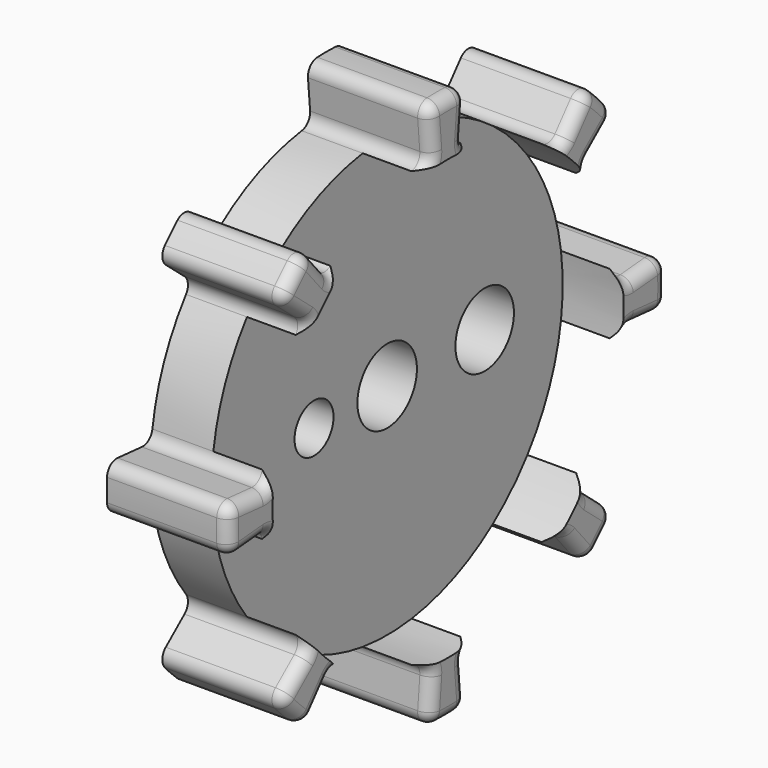
from build123d import *

# Parameters (mm, degrees)
F1_DEPTH = 10
F2_R     = 18
F3_DEPTH = 5
F5_D     = 6.1
F6_R     = 1
F7_D     = 6
F8_D     = 4


with BuildPart() as f1:
    # F0 (on Right) → F1 (new body)
    with BuildSketch(Plane.YZ):
        with BuildLine():
            ThreePointArc((1.8718204939, 21.3950061472), (1.6265103525, 22.1425953707), (0.9163525771, 22.4813322104))
            ThreePointArc((0.9163525771, 22.4813322104), (0, 22.5), (-0.9163525771, 22.4813322104))
            ThreePointArc((-0.9163525771, 22.4813322104), (-1.6265103525, 22.1425953707), (-1.8718204939, 21.3950061472))
            Line((-1.8718204939, 21.3950061472), (-1.6536639495, 18.9014654337))
            ThreePointArc((-1.6536639495, 18.9014654337), (-1.8671583576, 18.1919108992), (-2.510392403, 17.8240828651))
            ThreePointArc((-2.510392403, 17.8240828651), (-6.8883017826, 16.6298315852), (-10.8284143708, 14.3786453539))
            ThreePointArc((-10.8284143708, 14.3786453539), (-11.5433432234, 14.1839038957), (-12.1960373901, 14.534671375))
            Line((-12.1960373901, 14.534671375), (-13.8049769658, 16.4521308946))
            ThreePointArc((-13.8049769658, 16.4521308946), (-14.5070628398, 16.8072958397), (-15.2487433349, 16.5446615773))
            ThreePointArc((-15.2487433349, 16.5446615773), (-15.9099025767, 15.9099025767), (-16.5446615773, 15.2487433349))
            ThreePointArc((-16.5446615773, 15.2487433349), (-16.8072958397, 14.5070628398), (-16.4521308946, 13.8049769658))
            Line((-16.4521308946, 13.8049769658), (-14.534671375, 12.1960373901))
            ThreePointArc((-14.534671375, 12.1960373901), (-14.1839038957, 11.5433432234), (-14.3786453539, 10.8284143708))
            ThreePointArc((-14.3786453539, 10.8284143708), (-16.6298315852, 6.8883017826), (-17.8240828651, 2.510392403))
            ThreePointArc((-17.8240828651, 2.510392403), (-18.1919108992, 1.8671583576), (-18.9014654337, 1.6536639495))
            Line((-18.9014654337, 1.6536639495), (-21.3950061472, 1.8718204939))
            ThreePointArc((-21.3950061472, 1.8718204939), (-22.1425953707, 1.6265103525), (-22.4813322104, 0.9163525771))
            ThreePointArc((-22.4813322104, 0.9163525771), (-22.5, 0), (-22.4813322104, -0.9163525771))
            ThreePointArc((-22.4813322104, -0.9163525771), (-22.1425953707, -1.6265103525), (-21.3950061472, -1.8718204939))
            Line((-21.3950061472, -1.8718204939), (-18.9014654337, -1.6536639495))
            ThreePointArc((-18.9014654337, -1.6536639495), (-18.1919108992, -1.8671583576), (-17.8240828651, -2.510392403))
            ThreePointArc((-17.8240828651, -2.510392403), (-16.6298315852, -6.8883017826), (-14.3786453539, -10.8284143708))
            ThreePointArc((-14.3786453539, -10.8284143708), (-14.1839038957, -11.5433432234), (-14.534671375, -12.1960373901))
            Line((-14.534671375, -12.1960373901), (-16.4521308946, -13.8049769658))
            ThreePointArc((-16.4521308946, -13.8049769658), (-16.8072958397, -14.5070628398), (-16.5446615773, -15.2487433349))
            ThreePointArc((-16.5446615773, -15.2487433349), (-15.9099025767, -15.9099025767), (-15.2487433349, -16.5446615773))
            ThreePointArc((-15.2487433349, -16.5446615773), (-14.5070628398, -16.8072958397), (-13.8049769658, -16.4521308946))
            Line((-13.8049769658, -16.4521308946), (-12.1960373901, -14.534671375))
            ThreePointArc((-12.1960373901, -14.534671375), (-11.5433432234, -14.1839038957), (-10.8284143708, -14.3786453539))
            ThreePointArc((-10.8284143708, -14.3786453539), (-6.8883017826, -16.6298315852), (-2.510392403, -17.8240828651))
            ThreePointArc((-2.510392403, -17.8240828651), (-1.8671583576, -18.1919108992), (-1.6536639495, -18.9014654337))
            Line((-1.6536639495, -18.9014654337), (-1.8718204939, -21.3950061472))
            ThreePointArc((-1.8718204939, -21.3950061472), (-1.6265103525, -22.1425953707), (-0.9163525771, -22.4813322104))
            ThreePointArc((-0.9163525771, -22.4813322104), (0, -22.5), (0.9163525771, -22.4813322104))
            ThreePointArc((0.9163525771, -22.4813322104), (1.6265103525, -22.1425953707), (1.8718204939, -21.3950061472))
            Line((1.8718204939, -21.3950061472), (1.6536639495, -18.9014654337))
            ThreePointArc((1.6536639495, -18.9014654337), (1.8671583576, -18.1919108992), (2.510392403, -17.8240828651))
            ThreePointArc((2.510392403, -17.8240828651), (6.8883017826, -16.6298315852), (10.8284143708, -14.3786453539))
            ThreePointArc((10.8284143708, -14.3786453539), (11.5433432234, -14.1839038957), (12.1960373901, -14.534671375))
            Line((12.1960373901, -14.534671375), (13.8049769658, -16.4521308946))
            ThreePointArc((13.8049769658, -16.4521308946), (14.5070628398, -16.8072958397), (15.2487433349, -16.5446615773))
            ThreePointArc((15.2487433349, -16.5446615773), (15.9099025767, -15.9099025767), (16.5446615773, -15.2487433349))
            ThreePointArc((16.5446615773, -15.2487433349), (16.8072958397, -14.5070628398), (16.4521308946, -13.8049769658))
            Line((16.4521308946, -13.8049769658), (14.534671375, -12.1960373901))
            ThreePointArc((14.534671375, -12.1960373901), (14.1839038957, -11.5433432234), (14.3786453539, -10.8284143708))
            ThreePointArc((14.3786453539, -10.8284143708), (16.6298315852, -6.8883017826), (17.8240828651, -2.510392403))
            ThreePointArc((17.8240828651, -2.510392403), (18.1919108992, -1.8671583576), (18.9014654337, -1.6536639495))
            Line((18.9014654337, -1.6536639495), (21.3950061472, -1.8718204939))
            ThreePointArc((21.3950061472, -1.8718204939), (22.1425953707, -1.6265103525), (22.4813322104, -0.9163525771))
            ThreePointArc((22.4813322104, -0.9163525771), (22.5, 0), (22.4813322104, 0.9163525771))
            ThreePointArc((22.4813322104, 0.9163525771), (22.1425953707, 1.6265103525), (21.3950061472, 1.8718204939))
            Line((21.3950061472, 1.8718204939), (18.9014654337, 1.6536639495))
            ThreePointArc((18.9014654337, 1.6536639495), (18.1919108992, 1.8671583576), (17.8240828651, 2.510392403))
            ThreePointArc((17.8240828651, 2.510392403), (16.6298315852, 6.8883017826), (14.3786453539, 10.8284143708))
            ThreePointArc((14.3786453539, 10.8284143708), (14.1839038957, 11.5433432234), (14.534671375, 12.1960373901))
            Line((14.534671375, 12.1960373901), (16.4521308946, 13.8049769658))
            ThreePointArc((16.4521308946, 13.8049769658), (16.8072958397, 14.5070628398), (16.5446615773, 15.2487433349))
            ThreePointArc((16.5446615773, 15.2487433349), (15.9099025767, 15.9099025767), (15.2487433349, 16.5446615773))
            ThreePointArc((15.2487433349, 16.5446615773), (14.5070628398, 16.8072958397), (13.8049769658, 16.4521308946))
            Line((13.8049769658, 16.4521308946), (12.1960373901, 14.534671375))
            ThreePointArc((12.1960373901, 14.534671375), (11.5433432234, 14.1839038957), (10.8284143708, 14.3786453539))
            ThreePointArc((10.8284143708, 14.3786453539), (6.8883017826, 16.6298315852), (2.510392403, 17.8240828651))
            ThreePointArc((2.510392403, 17.8240828651), (1.8671583576, 18.1919108992), (1.6536639495, 18.9014654337))
            Line((1.6536639495, 18.9014654337), (1.8718204939, 21.3950061472))
        make_face()
    extrude(amount=F1_DEPTH)

    # F2 (on face) → F3 (cut)
    with BuildSketch(Plane.YZ.offset(10)):
        Circle(F2_R)
    extrude(amount=-F3_DEPTH, mode=Mode.SUBTRACT)

    # F5 (through all)
    with Locations(Plane.YZ.offset(5)):
        with Locations((0, 0)):
            Hole(F5_D / 2)

    # F6
    f6_edges = [f1.edges().sort_by_distance(p)[0] for p in [
        (10, -15.909903, 15.909903),
        (10, -22.5, 0),
        (10, -15.909903, -15.909903),
        (10, 0, -22.5),
        (10, 15.909903, -15.909903),
        (10, 22.5, 0),
        (10, 15.909903, 15.909903),
        (10, 0, 22.5),
    ]]
    fillet(f6_edges, radius=F6_R)

    # F7 (through all)
    with Locations(Plane.YZ.offset(5)):
        with Locations((10, 0)):
            Hole(F7_D / 2)

    # F8 (through all)
    with Locations(Plane.YZ.offset(5)):
        with Locations((-7.5, 0)):
            Hole(F8_D / 2)


solid = f1.part
